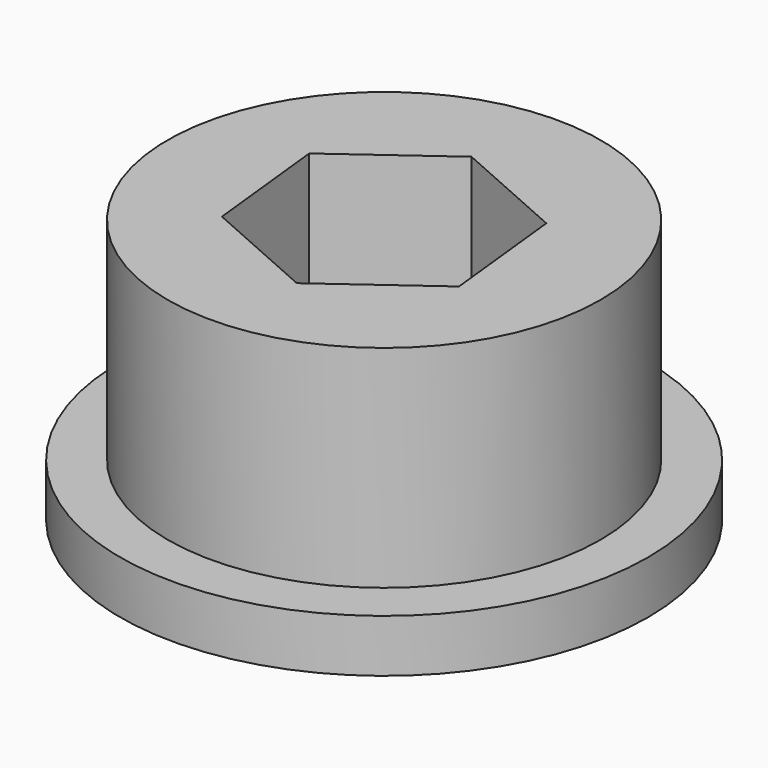
from build123d import *

# Parameters (mm, degrees)
F0_R     = 15.875
F1_DEPTH = 3.175
F2_R     = 13.0175
F3_DEPTH = 12.7
F5_DEPTH = 15.876


with BuildPart() as f1:
    # F0 (on Top) → F1 (new body)
    with BuildSketch(Plane.XY):
        Circle(F0_R)
    extrude(amount=F1_DEPTH)

    # F2 (on face) → F3 (join)
    with BuildSketch(Plane.XY.offset(3.175)):
        Circle(F2_R)
    extrude(amount=F3_DEPTH)

    # F4 (on face) → F5 (cut, through all)
    with BuildSketch(Plane.XY.offset(15.875)):
        Polygon((6.159243, 4.496015), (-0.814041, 7.582068), (-6.973284, 3.086053), (-6.159243, -4.496015), (0.814041, -7.582068), (6.973284, -3.086053), align=None)
    extrude(amount=-F5_DEPTH, mode=Mode.SUBTRACT)


solid = f1.part
